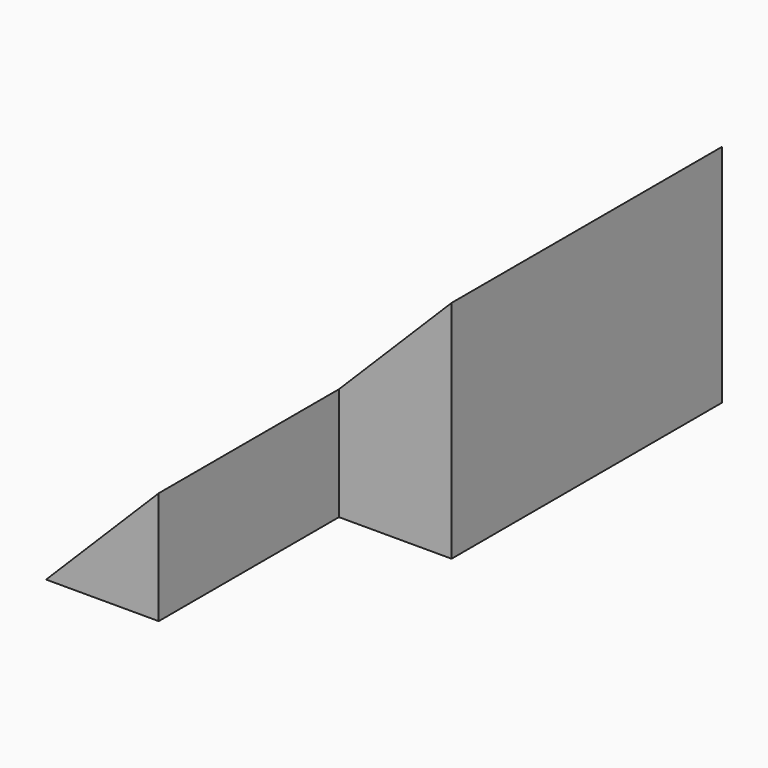
from build123d import *

# Parameters (mm, degrees)
F1_DEPTH = 38.1
F3_DEPTH = 25.4


with BuildPart() as f1:
    # F0 (on Front) → F1 (new body)
    with BuildSketch(Plane.XZ):
        Polygon((25.4, 25.4), (0, 0), (25.4, 0), align=None)
    extrude(amount=F1_DEPTH)


with BuildPart() as f3:
    # F2 (on face) → F3 (new body)
    with BuildSketch(Plane.XZ.offset(38.1)):
        Polygon((12.7, 12.7), (0, 0), (12.7, 0), align=None)
    extrude(amount=F3_DEPTH)


solid = Compound([f1.part, f3.part])
